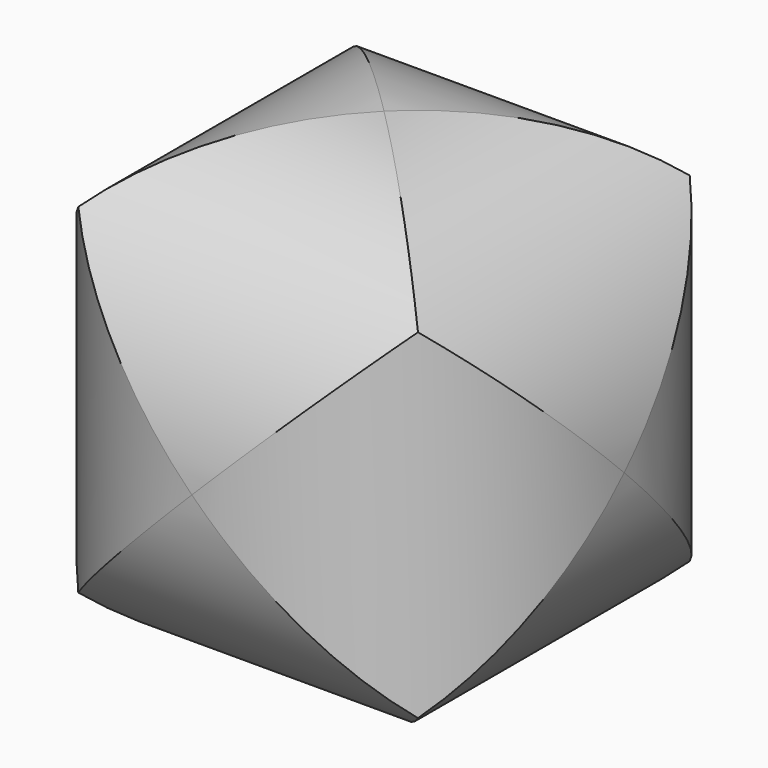
from build123d import *

# Parameters (mm, degrees)
F0_R     = 20
F1_DEPTH = 25
F4_COUNT = 3


with BuildPart() as f1:
    # F0 (on Front) → F1 (new body, symmetric)
    with BuildSketch(Plane.XZ):
        Circle(F0_R)
    extrude(amount=F1_DEPTH, both=True)


with BuildPart() as f4_1:
    # F4: instance of F1
    add(f1.part.rotate(Axis((-10, 10, 10), (-0.5773502692, 0.5773502692, 0.5773502692)), 1 * 360 / F4_COUNT))


with BuildPart() as f4_2:
    # F4: instance of F1
    add(f1.part.rotate(Axis((-10, 10, 10), (-0.5773502692, 0.5773502692, 0.5773502692)), 2 * 360 / F4_COUNT))

    # F5: intersect F4_1, F1
    add(f4_1.part, mode=Mode.INTERSECT)
    add(f1.part, mode=Mode.INTERSECT)


solid = f4_2.part
